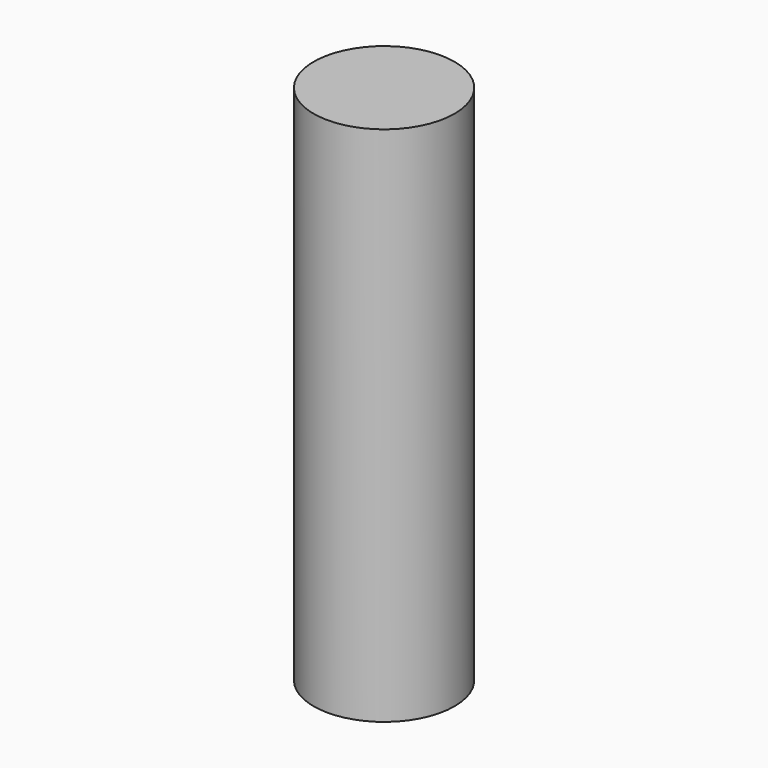
from build123d import *

# Parameters (mm, degrees)
CYLINDER_R     = 2.02565
CYLINDER_DEPTH = 15


with BuildPart() as part:
    # Cylinder → Cylinder (new body)
    with BuildSketch(Plane.XY.offset(-2.5)):
        Circle(CYLINDER_R)
    extrude(amount=CYLINDER_DEPTH)


solid = part.part
